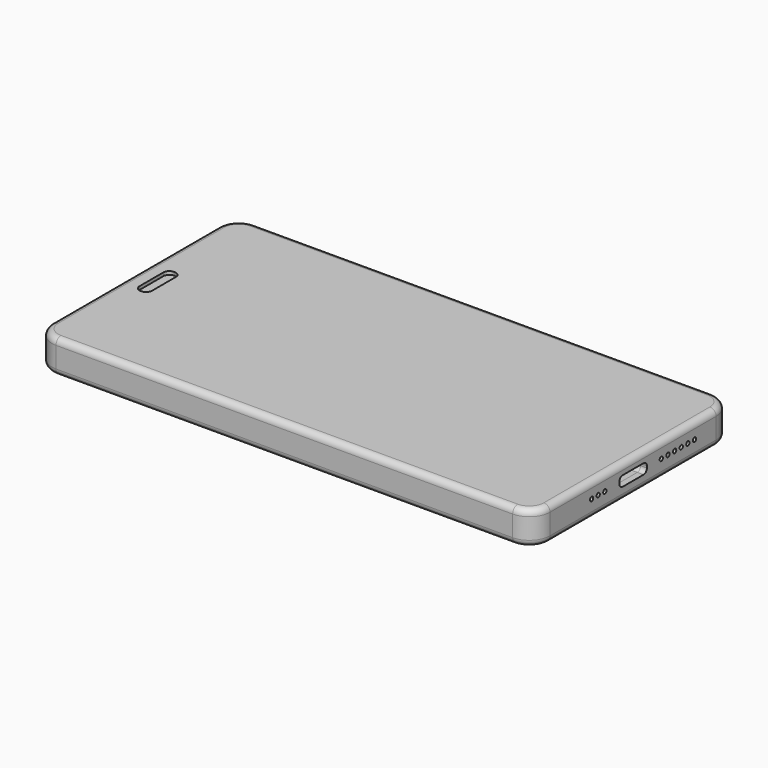
from build123d import *

# Parameters (mm, degrees)
BOX005_W          = 105
BOX005_H          = 57
BOX005_DEPTH      = 1
BOX007_W          = 3
BOX007_H          = 10
BOX007_DEPTH      = 10
FILLET006_R       = 1.4
BOX002_W          = 117
BOX002_H          = 57
BOX002_DEPTH      = 1
FILLET003_R       = 3.5
BOX010_W          = 3
BOX010_H          = 10
BOX010_DEPTH      = 0.2
FILLET008_R       = 1.4
BOX014_W          = 9
BOX014_H          = 9
BOX014_DEPTH      = 4.2
BOX013_W          = 35
BOX013_H          = 55.5
BOX013_DEPTH      = 3
FILLET009_R       = 3
BOX015_W          = 65
BOX015_H          = 53
BOX015_DEPTH      = 4
BOX011_W          = 2.5
BOX011_H          = 8
BOX011_DEPTH      = 10
CYLINDER004_R     = 1
CYLINDER004_DEPTH = 10
CYLINDER003_R     = 0.5
CYLINDER003_DEPTH = 10
CYLINDER_R        = 2
CYLINDER_DEPTH    = 10
BOX009_W          = 5
BOX009_H          = 2
BOX009_DEPTH      = 10
FILLET007_R       = 0.9
BOX003_W          = 8
BOX003_H          = 57
BOX003_DEPTH      = 1
BOX004_W          = 4
BOX004_H          = 57
BOX004_DEPTH      = 1
FILLET004_R       = 3.5
BOX006_W          = 117
BOX006_H          = 57
BOX006_DEPTH      = 0.5
FILLET005_R       = 3.5
CYLINDER009_R     = 2.5
CYLINDER009_DEPTH = 1
BOX012_W          = 8
BOX012_H          = 8
BOX012_DEPTH      = 4.2
CYLINDER010_R     = 2.3
CYLINDER010_DEPTH = 1
BOX036_W          = 10
BOX036_H          = 20
BOX036_DEPTH      = 3.7
BOX037_W          = 14
BOX037_H          = 20
BOX037_DEPTH      = 3.7
CYLINDER020_R     = 0.25
CYLINDER020_DEPTH = 10
BOX035_W          = 8.65
BOX035_H          = 8.3
BOX035_DEPTH      = 2.45
FILLET022_R       = 1
BOX016_W          = 14
BOX016_H          = 57
BOX016_DEPTH      = 4
FILLET010_R       = 3.5
BOX038_W          = 11.5
BOX038_H          = 20
BOX038_DEPTH      = 3.7
CYLINDER008_R     = 1
CYLINDER008_DEPTH = 1
CYLINDER007_R     = 2.5
CYLINDER007_DEPTH = 1
BOX043_W          = 10
BOX043_H          = 57
BOX043_DEPTH      = 0.8
FILLET026_R       = 3.5
BOX042_W          = 10
BOX042_H          = 57
BOX042_DEPTH      = 0.8
FILLET025_R       = 3.5
BOX047_W          = 20
BOX047_H          = 4
BOX047_DEPTH      = 2.5
FILLET028_R       = 1.2
BOX046_W          = 10
BOX046_H          = 4
BOX046_DEPTH      = 2.5
FILLET027_R       = 1.2
BOX044_W          = 8
BOX044_H          = 36
BOX044_DEPTH      = 10
BOX045_W          = 8
BOX045_H          = 41
BOX045_DEPTH      = 10
BOX041_W          = 10
BOX041_H          = 57
BOX041_DEPTH      = 0.8
FILLET024_R       = 3.5
BOX039_W          = 10
BOX039_H          = 57
BOX039_DEPTH      = 0.8
FILLET023_R       = 3.5
CYLINDER011_R     = 0.5
CYLINDER011_DEPTH = 10
CYLINDER015_R     = 0.5
CYLINDER015_DEPTH = 10
CYLINDER013_R     = 0.5
CYLINDER013_DEPTH = 10
CYLINDER017_R     = 0.5
CYLINDER017_DEPTH = 10
CYLINDER019_R     = 0.5
CYLINDER019_DEPTH = 10
CYLINDER018_R     = 0.5
CYLINDER018_DEPTH = 10
CYLINDER014_R     = 0.5
CYLINDER014_DEPTH = 10
CYLINDER016_R     = 0.5
CYLINDER016_DEPTH = 10
CYLINDER012_R     = 0.5
CYLINDER012_DEPTH = 10
CYLINDER006_R     = 1
CYLINDER006_DEPTH = 10
CYLINDER005_R     = 2.5
CYLINDER005_DEPTH = 10
BOX001_W          = 117
BOX001_H          = 57
BOX001_DEPTH      = 8
FILLET002_R       = 3.5
BOX_W             = 120
BOX_H             = 60
BOX_DEPTH         = 8
FILLET_R          = 5
FILLET001_R       = 1.5
BOX049_W          = 20
BOX049_H          = 4
BOX049_DEPTH      = 2.5
FILLET030_R       = 1.2
BOX048_W          = 10
BOX048_H          = 4
BOX048_DEPTH      = 2.5
FILLET029_R       = 1.2


with BuildPart() as screen:
    # Box005 → Box005 (new body)
    with BuildSketch(Plane(origin=(9.5, 1.5, 6), x_dir=(1, 0, 0), z_dir=(0, 0, 1))):
        with Locations((52.5, 28.5)):
            Rectangle(BOX005_W, BOX005_H)
    extrude(amount=BOX005_DEPTH)


with BuildPart() as fillet006:
    # Box007 → Box007 (new body)
    with BuildSketch(Plane(origin=(4, 25, 0), x_dir=(1, 0, 0), z_dir=(0, 0, 1))):
        with Locations((1.5, 5)):
            Rectangle(BOX007_W, BOX007_H)
    extrude(amount=BOX007_DEPTH)

    # Fillet006
    fillet006_edges = [fillet006.edges().sort_by_distance(p)[0] for p in [
        (4, 25, 5),
        (4, 35, 5),
        (7, 25, 5),
        (7, 35, 5),
    ]]
    fillet(fillet006_edges, radius=FILLET006_R)


with BuildPart() as touchscreen:
    # Box002 → Box002 (new body)
    with BuildSketch(Plane(origin=(1.5, 1.5, 0), x_dir=(1, 0, 0), z_dir=(0, 0, 1))):
        with Locations((58.5, 28.5)):
            Rectangle(BOX002_W, BOX002_H)
    extrude(amount=BOX002_DEPTH)

    # Fillet003
    fillet003_edges = [touchscreen.edges().sort_by_distance(p)[0] for p in [
        (1.5, 1.5, 0.5),
        (1.5, 58.5, 0.5),
        (118.5, 1.5, 0.5),
        (118.5, 58.5, 0.5),
    ]]
    fillet(fillet003_edges, radius=FILLET003_R)


with BuildPart() as touchscreen_1:
    # Fillet003 placement: moved
    add(touchscreen.part.moved(Location((0, 0, 7))))

    # Cut001: cut Fillet006
    add(fillet006.part, mode=Mode.SUBTRACT)


with BuildPart() as speaker_bezel:
    # Box010 → Box010 (new body)
    with BuildSketch(Plane(origin=(4, 25, 0), x_dir=(1, 0, 0), z_dir=(0, 0, 1))):
        with Locations((1.5, 5)):
            Rectangle(BOX010_W, BOX010_H)
    extrude(amount=BOX010_DEPTH)

    # Fillet008
    fillet008_edges = [speaker_bezel.edges().sort_by_distance(p)[0] for p in [
        (4, 25, 0.1),
        (4, 35, 0.1),
        (7, 25, 0.1),
        (7, 35, 0.1),
    ]]
    fillet(fillet008_edges, radius=FILLET008_R)


with BuildPart() as speaker_bezel_1:
    # Fillet008 placement: moved
    add(speaker_bezel.part.moved(Location((0, 0, 7))))


with BuildPart() as back_camera001:
    # Box014 → Box014 (new body)
    with BuildSketch(Plane(origin=(2.1, 48.5, 1.6), x_dir=(1, 0, 0), z_dir=(0, 0, 1))):
        with Locations((4.5, 4.5)):
            Rectangle(BOX014_W, BOX014_H)
    extrude(amount=BOX014_DEPTH)


with BuildPart() as pcb:
    # Box013 → Box013 (new body)
    with BuildSketch(Plane(origin=(2.1, 2, 2.5), x_dir=(1, 0, 0), z_dir=(0, 0, 1))):
        with Locations((17.5, 27.75)):
            Rectangle(BOX013_W, BOX013_H)
    extrude(amount=BOX013_DEPTH)

    # Fillet009
    fillet009_edges = [pcb.edges().sort_by_distance(p)[0] for p in [
        (2.1, 2, 4),
    ]]
    fillet(fillet009_edges, radius=FILLET009_R)

    # Cut009: cut Back Camera001
    add(back_camera001.part, mode=Mode.SUBTRACT)


with BuildPart() as pcb_1:
    # Cut009 placement: moved
    add(pcb.part.moved(Location((0, 0, -0.5))))


with BuildPart() as battery:
    # Box015 → Box015 (new body)
    with BuildSketch(Plane(origin=(39, 2, 1.2), x_dir=(1, 0, 0), z_dir=(0, 0, 1))):
        with Locations((32.5, 26.5)):
            Rectangle(BOX015_W, BOX015_H)
    extrude(amount=BOX015_DEPTH)


with BuildPart() as cubo011:
    # Box011 → Box011 (new body)
    with BuildSketch(Plane(origin=(4.2, 26, 0), x_dir=(1, 0, 0), z_dir=(0, 0, 1))):
        with Locations((1.25, 4)):
            Rectangle(BOX011_W, BOX011_H)
    extrude(amount=BOX011_DEPTH)


with BuildPart() as cilindro003:
    # Cylinder004 → Cylinder004 (new body)
    with BuildSketch(Plane(origin=(5.5, 15.5, 0), x_dir=(1, 0, 0), z_dir=(0, 0, 1))):
        Circle(CYLINDER004_R)
    extrude(amount=CYLINDER004_DEPTH)


with BuildPart() as cilindro002:
    # Cylinder003 → Cylinder003 (new body)
    with BuildSketch(Plane(origin=(5.5, 23.5, 0), x_dir=(1, 0, 0), z_dir=(0, 0, 1))):
        Circle(CYLINDER003_R)
    extrude(amount=CYLINDER003_DEPTH)


with BuildPart() as cilindro:
    # Cylinder → Cylinder (new body)
    with BuildSketch(Plane(origin=(5.5, 20, 0), x_dir=(1, 0, 0), z_dir=(0, 0, 1))):
        Circle(CYLINDER_R)
    extrude(amount=CYLINDER_DEPTH)


with BuildPart() as fillet007:
    # Box009 → Box009 (new body)
    with BuildSketch(Plane(origin=(3, 37, 0), x_dir=(1, 0, 0), z_dir=(0, 0, 1))):
        with Locations((2.5, 1)):
            Rectangle(BOX009_W, BOX009_H)
    extrude(amount=BOX009_DEPTH)

    # Fillet007
    fillet007_edges = [fillet007.edges().sort_by_distance(p)[0] for p in [
        (3, 37, 5),
        (3, 39, 5),
        (8, 37, 5),
        (8, 39, 5),
    ]]
    fillet(fillet007_edges, radius=FILLET007_R)


with BuildPart() as cubo003:
    # Box003 → Box003 (new body)
    with BuildSketch(Plane(origin=(1.5, 1.5, 0), x_dir=(1, 0, 0), z_dir=(0, 0, 1))):
        with Locations((4, 28.5)):
            Rectangle(BOX003_W, BOX003_H)
    extrude(amount=BOX003_DEPTH)


with BuildPart() as cut008:
    # Box004 → Box004 (new body)
    with BuildSketch(Plane(origin=(114.5, 1.5, 0), x_dir=(1, 0, 0), z_dir=(0, 0, 1))):
        with Locations((2, 28.5)):
            Rectangle(BOX004_W, BOX004_H)
    extrude(amount=BOX004_DEPTH)

    # Fusion: union Cubo003
    add(cubo003.part)


with BuildPart() as cut008_1:
    # Fusion placement: moved
    add(cut008.part.moved(Location((0, 0, 6))))

    # Fillet004
    fillet004_edges = [cut008_1.edges().sort_by_distance(p)[0] for p in [
        (118.5, 1.5, 6.5),
        (118.5, 58.5, 6.5),
        (1.5, 1.5, 6.5),
        (1.5, 58.5, 6.5),
    ]]
    fillet(fillet004_edges, radius=FILLET004_R)

    # Cut002: cut Fillet007
    add(fillet007.part, mode=Mode.SUBTRACT)

    # Cut003: cut Cilindro
    add(cilindro.part, mode=Mode.SUBTRACT)

    # Cut004: cut Cilindro002
    add(cilindro002.part, mode=Mode.SUBTRACT)

    # Cut006: cut Cilindro003
    add(cilindro003.part, mode=Mode.SUBTRACT)

    # Cut008: cut Cubo011
    add(cubo011.part, mode=Mode.SUBTRACT)


with BuildPart() as frame:
    # Box006 → Box006 (new body)
    with BuildSketch(Plane(origin=(1.5, 1.5, 0), x_dir=(1, 0, 0), z_dir=(0, 0, 1))):
        with Locations((58.5, 28.5)):
            Rectangle(BOX006_W, BOX006_H)
    extrude(amount=BOX006_DEPTH)

    # Fillet005
    fillet005_edges = [frame.edges().sort_by_distance(p)[0] for p in [
        (1.5, 1.5, 0.25),
        (1.5, 58.5, 0.25),
        (118.5, 1.5, 0.25),
        (118.5, 58.5, 0.25),
    ]]
    fillet(fillet005_edges, radius=FILLET005_R)


with BuildPart() as frame_1:
    # Fillet005 placement: moved
    add(frame.part.moved(Location((0, 0, 5.5))))

    # Fusion002: union Cut008
    add(cut008_1.part)


with BuildPart() as camera_lent001:
    # Cylinder009 → Cylinder009 (new body)
    with BuildSketch(Plane(origin=(6.5, 53, 1), x_dir=(1, 0, 0), z_dir=(0, 0, 1))):
        Circle(CYLINDER009_R)
    extrude(amount=CYLINDER009_DEPTH)


with BuildPart() as camera002:
    # Box012 → Box012 (new body)
    with BuildSketch(Plane(origin=(2.6, 49, 1.2), x_dir=(1, 0, 0), z_dir=(0, 0, 1))):
        with Locations((4, 4)):
            Rectangle(BOX012_W, BOX012_H)
    extrude(amount=BOX012_DEPTH)

    # Cut010: cut Camera lent001
    add(camera_lent001.part, mode=Mode.SUBTRACT)


with BuildPart() as camera_lent002:
    # Cylinder010 → Cylinder010 (new body)
    with BuildSketch(Plane(origin=(6.5, 53, 1), x_dir=(1, 0, 0), z_dir=(0, 0, 1))):
        Circle(CYLINDER010_R)
    extrude(amount=CYLINDER010_DEPTH)


with BuildPart() as esfera001:
    # Sphere002 → Sphere002 (revolve)
    with BuildSketch(Plane(origin=(6.5, 53, 1), x_dir=(1, 0, 0), z_dir=(0, -1, 0))):
        with BuildLine():
            ThreePointArc((0, -0.5), (0.5, 0), (0, 0.5))
            Line((0, 0.5), (0, -0.5))
        make_face()
    revolve(axis=Axis((6.5, 53, 1), (0, 0, 1)))


with BuildPart() as obj1:
    # Box036 → Box036 (new body)
    with BuildSketch(Plane(origin=(106, 3, 1.5), x_dir=(1, 0, 0), z_dir=(0, 0, 1))):
        with Locations((5, 10)):
            Rectangle(BOX036_W, BOX036_H)
    extrude(amount=BOX036_DEPTH)


with BuildPart() as speaker_hole:
    # Box037 → Box037 (new body)
    with BuildSketch(Plane(origin=(107, 35, 1.5), x_dir=(1, 0, 0), z_dir=(0, 0, 1))):
        with Locations((7, 10)):
            Rectangle(BOX037_W, BOX037_H)
    extrude(amount=BOX037_DEPTH)


with BuildPart() as cilindro013:
    # Cylinder020 → Cylinder020 (new body)
    with BuildSketch(Plane(origin=(113, 19.5, 4.2), x_dir=(0, 1, 0), z_dir=(1, 0, 0))):
        Circle(CYLINDER020_R)
    extrude(amount=CYLINDER020_DEPTH)


with BuildPart() as usb_c:
    # Box035 → Box035 (new body)
    with BuildSketch(Plane.XY):
        with Locations((4.325, 4.15)):
            Rectangle(BOX035_W, BOX035_H)
    extrude(amount=BOX035_DEPTH)

    # Fillet022
    fillet022_edges = [usb_c.edges().sort_by_distance(p)[0] for p in [
        (4.325, 0, 0),
        (4.325, 0, 2.45),
        (4.325, 8.3, 0),
        (4.325, 8.3, 2.45),
    ]]
    fillet(fillet022_edges, radius=FILLET022_R)


with BuildPart() as usb_c_1:
    # Fillet022 placement: moved
    add(usb_c.part.moved(Location((113, 25.85, 3))))


with BuildPart() as buzzer:
    # Box016 → Box016 (new body)
    with BuildSketch(Plane(origin=(104.5, 1.5, 1.2), x_dir=(1, 0, 0), z_dir=(0, 0, 1))):
        with Locations((7, 28.5)):
            Rectangle(BOX016_W, BOX016_H)
    extrude(amount=BOX016_DEPTH)

    # Fillet010
    fillet010_edges = [buzzer.edges().sort_by_distance(p)[0] for p in [
        (118.5, 1.5, 3.2),
        (118.5, 58.5, 3.2),
    ]]
    fillet(fillet010_edges, radius=FILLET010_R)

    # Cut013: cut USB-C
    add(usb_c_1.part, mode=Mode.SUBTRACT)

    # Cut014: cut Cilindro013
    add(cilindro013.part, mode=Mode.SUBTRACT)

    # Cut015: cut Speaker hole
    add(speaker_hole.part, mode=Mode.SUBTRACT)


with BuildPart() as speaker:
    # Box038 → Box038 (new body)
    with BuildSketch(Plane(origin=(107, 35, 1.5), x_dir=(1, 0, 0), z_dir=(0, 0, 1))):
        with Locations((5.75, 10)):
            Rectangle(BOX038_W, BOX038_H)
    extrude(amount=BOX038_DEPTH)


with BuildPart() as flash_lens:
    # Cylinder008 → Cylinder008 (new body)
    with BuildSketch(Plane(origin=(6.5, 45.5, 0), x_dir=(1, 0, 0), z_dir=(0, 0, 1))):
        Circle(CYLINDER008_R)
    extrude(amount=CYLINDER008_DEPTH)


with BuildPart() as esfera:
    # Sphere001 → Sphere001 (revolve)
    with BuildSketch(Plane(origin=(6.5, 53, 1), x_dir=(1, 0, 0), z_dir=(0, -1, 0))):
        with BuildLine():
            ThreePointArc((0, -0.5), (0.5, 0), (0, 0.5))
            Line((0, 0.5), (0, -0.5))
        make_face()
    revolve(axis=Axis((6.5, 53, 1), (0, 0, 1)))


with BuildPart() as cut011:
    # Cylinder007 → Cylinder007 (new body)
    with BuildSketch(Plane(origin=(6.5, 53, 0), x_dir=(1, 0, 0), z_dir=(0, 0, 1))):
        Circle(CYLINDER007_R)
    extrude(amount=CYLINDER007_DEPTH)

    # Cut011: cut Esfera
    add(esfera.part, mode=Mode.SUBTRACT)


with BuildPart() as fillet026:
    # Box043 → Box043 (new body)
    with BuildSketch(Plane(origin=(108.5, 1.5, 0), x_dir=(1, 0, 0), z_dir=(0, 0, 1))):
        with Locations((5, 28.5)):
            Rectangle(BOX043_W, BOX043_H)
    extrude(amount=BOX043_DEPTH)

    # Fillet026
    fillet026_edges = [fillet026.edges().sort_by_distance(p)[0] for p in [
        (118.5, 1.5, 0.4),
        (118.5, 58.5, 0.4),
    ]]
    fillet(fillet026_edges, radius=FILLET026_R)


with BuildPart() as antenna:
    # Box042 → Box042 (new body)
    with BuildSketch(Plane(origin=(1.5, 1.5, 0), x_dir=(1, 0, 0), z_dir=(0, 0, 1))):
        with Locations((5, 28.5)):
            Rectangle(BOX042_W, BOX042_H)
    extrude(amount=BOX042_DEPTH)

    # Fillet025
    fillet025_edges = [antenna.edges().sort_by_distance(p)[0] for p in [
        (1.5, 1.5, 0.4),
        (1.5, 58.5, 0.4),
    ]]
    fillet(fillet025_edges, radius=FILLET025_R)

    # Fusion009: union Fillet026
    add(fillet026.part)

    # Cut017: cut Cut011
    add(cut011.part, mode=Mode.SUBTRACT)

    # Cut018: cut Flash lens
    add(flash_lens.part, mode=Mode.SUBTRACT)


with BuildPart() as obj2:
    # Box047 → Box047 (new body)
    with BuildSketch(Plane(origin=(68, 57, 2.75), x_dir=(1, 0, 0), z_dir=(0, 0, 1))):
        with Locations((10, 2)):
            Rectangle(BOX047_W, BOX047_H)
    extrude(amount=BOX047_DEPTH)

    # Fillet028
    fillet028_edges = [obj2.edges().sort_by_distance(p)[0] for p in [
        (68, 59, 5.25),
        (68, 59, 2.75),
        (88, 59, 5.25),
        (88, 59, 2.75),
    ]]
    fillet(fillet028_edges, radius=FILLET028_R)


with BuildPart() as obj3:
    # Box046 → Box046 (new body)
    with BuildSketch(Plane(origin=(55, 57, 2.75), x_dir=(1, 0, 0), z_dir=(0, 0, 1))):
        with Locations((5, 2)):
            Rectangle(BOX046_W, BOX046_H)
    extrude(amount=BOX046_DEPTH)

    # Fillet027
    fillet027_edges = [obj3.edges().sort_by_distance(p)[0] for p in [
        (55, 59, 5.25),
        (55, 59, 2.75),
        (65, 59, 5.25),
        (65, 59, 2.75),
    ]]
    fillet(fillet027_edges, radius=FILLET027_R)

    # Fusion011: union obj2
    add(obj2.part)


with BuildPart() as cubo034:
    # Box044 → Box044 (new body)
    with BuildSketch(Plane(origin=(2.5, 5, 0), x_dir=(1, 0, 0), z_dir=(0, 0, 1))):
        with Locations((4, 18)):
            Rectangle(BOX044_W, BOX044_H)
    extrude(amount=BOX044_DEPTH)


with BuildPart() as fusion010:
    # Box045 → Box045 (new body)
    with BuildSketch(Plane(origin=(109.5, 9, 0), x_dir=(1, 0, 0), z_dir=(0, 0, 1))):
        with Locations((4, 20.5)):
            Rectangle(BOX045_W, BOX045_H)
    extrude(amount=BOX045_DEPTH)

    # Fusion010: union Cubo034
    add(cubo034.part)


with BuildPart() as fillet024:
    # Box041 → Box041 (new body)
    with BuildSketch(Plane(origin=(108.5, 1.5, 0), x_dir=(1, 0, 0), z_dir=(0, 0, 1))):
        with Locations((5, 28.5)):
            Rectangle(BOX041_W, BOX041_H)
    extrude(amount=BOX041_DEPTH)

    # Fillet024
    fillet024_edges = [fillet024.edges().sort_by_distance(p)[0] for p in [
        (118.5, 1.5, 0.4),
        (118.5, 58.5, 0.4),
    ]]
    fillet(fillet024_edges, radius=FILLET024_R)


with BuildPart() as fusion008:
    # Box039 → Box039 (new body)
    with BuildSketch(Plane(origin=(1.5, 1.5, 0), x_dir=(1, 0, 0), z_dir=(0, 0, 1))):
        with Locations((5, 28.5)):
            Rectangle(BOX039_W, BOX039_H)
    extrude(amount=BOX039_DEPTH)

    # Fillet023
    fillet023_edges = [fusion008.edges().sort_by_distance(p)[0] for p in [
        (1.5, 1.5, 0.4),
        (1.5, 58.5, 0.4),
    ]]
    fillet(fillet023_edges, radius=FILLET023_R)

    # Fusion008: union Fillet024
    add(fillet024.part)


with BuildPart() as cilindro004:
    # Cylinder011 → Cylinder011 (new body)
    with BuildSketch(Plane(origin=(113, 48.5, 4.2), x_dir=(0, 1, 0), z_dir=(1, 0, 0))):
        Circle(CYLINDER011_R)
    extrude(amount=CYLINDER011_DEPTH)


with BuildPart() as cilindro008:
    # Cylinder015 → Cylinder015 (new body)
    with BuildSketch(Plane(origin=(113, 44.5, 4.2), x_dir=(0, 1, 0), z_dir=(1, 0, 0))):
        Circle(CYLINDER015_R)
    extrude(amount=CYLINDER015_DEPTH)


with BuildPart() as fusion004:
    # Cylinder013 → Cylinder013 (new body)
    with BuildSketch(Plane(origin=(113, 46.5, 4.2), x_dir=(0, 1, 0), z_dir=(1, 0, 0))):
        Circle(CYLINDER013_R)
    extrude(amount=CYLINDER013_DEPTH)

    # Fusion004: union Cilindro004, Cilindro008
    add(cilindro004.part)
    add(cilindro008.part)


with BuildPart() as fusion004_1:
    # Fusion004 placement: moved
    add(fusion004.part.moved(Location((0, -6, 0))))


with BuildPart() as cilindro010:
    # Cylinder017 → Cylinder017 (new body)
    with BuildSketch(Plane(origin=(113, 48.5, 4.2), x_dir=(0, 1, 0), z_dir=(1, 0, 0))):
        Circle(CYLINDER017_R)
    extrude(amount=CYLINDER017_DEPTH)


with BuildPart() as cilindro012:
    # Cylinder019 → Cylinder019 (new body)
    with BuildSketch(Plane(origin=(113, 44.5, 4.2), x_dir=(0, 1, 0), z_dir=(1, 0, 0))):
        Circle(CYLINDER019_R)
    extrude(amount=CYLINDER019_DEPTH)


with BuildPart() as speaker_holes:
    # Cylinder018 → Cylinder018 (new body)
    with BuildSketch(Plane(origin=(113, 46.5, 4.2), x_dir=(0, 1, 0), z_dir=(1, 0, 0))):
        Circle(CYLINDER018_R)
    extrude(amount=CYLINDER018_DEPTH)

    # Fusion005: union Cilindro010, Cilindro012
    add(cilindro010.part)
    add(cilindro012.part)

    # Fusion006: union Fusion004
    add(fusion004_1.part)


with BuildPart() as cilindro007:
    # Cylinder014 → Cylinder014 (new body)
    with BuildSketch(Plane(origin=(113, 13.5, 4.2), x_dir=(0, 1, 0), z_dir=(1, 0, 0))):
        Circle(CYLINDER014_R)
    extrude(amount=CYLINDER014_DEPTH)


with BuildPart() as cilindro009:
    # Cylinder016 → Cylinder016 (new body)
    with BuildSketch(Plane(origin=(113, 15.5, 4.2), x_dir=(0, 1, 0), z_dir=(1, 0, 0))):
        Circle(CYLINDER016_R)
    extrude(amount=CYLINDER016_DEPTH)


with BuildPart() as bot_holes:
    # Cylinder012 → Cylinder012 (new body)
    with BuildSketch(Plane(origin=(113, 11.5, 4.2), x_dir=(0, 1, 0), z_dir=(1, 0, 0))):
        Circle(CYLINDER012_R)
    extrude(amount=CYLINDER012_DEPTH)

    # Fusion003: union Cilindro007, Cilindro009
    add(cilindro007.part)
    add(cilindro009.part)


with BuildPart() as bot_holes_1:
    # Fusion003 placement: moved
    add(bot_holes.part.moved(Location((0, 6, 0))))

    # Fusion007: union USB-C, speaker holes
    add(usb_c_1.part)
    add(speaker_holes.part)


with BuildPart() as flash:
    # Cylinder006 → Cylinder006 (new body)
    with BuildSketch(Plane(origin=(6.5, 45.5, -3), x_dir=(1, 0, 0), z_dir=(0, 0, 1))):
        Circle(CYLINDER006_R)
    extrude(amount=CYLINDER006_DEPTH)


with BuildPart() as camera:
    # Cylinder005 → Cylinder005 (new body)
    with BuildSketch(Plane(origin=(6.5, 53, -3), x_dir=(1, 0, 0), z_dir=(0, 0, 1))):
        Circle(CYLINDER005_R)
    extrude(amount=CYLINDER005_DEPTH)

    # Fusion001: union Flash
    add(flash.part)


with BuildPart() as fillet002:
    # Box001 → Box001 (new body)
    with BuildSketch(Plane(origin=(1.5, 1.5, 0), x_dir=(1, 0, 0), z_dir=(0, 0, 1))):
        with Locations((58.5, 28.5)):
            Rectangle(BOX001_W, BOX001_H)
    extrude(amount=BOX001_DEPTH)

    # Fillet002
    fillet002_edges = [fillet002.edges().sort_by_distance(p)[0] for p in [
        (1.5, 1.5, 4),
        (1.5, 58.5, 4),
        (118.5, 1.5, 4),
        (118.5, 58.5, 4),
    ]]
    fillet(fillet002_edges, radius=FILLET002_R)


with BuildPart() as fillet002_1:
    # Fillet002 placement: moved
    add(fillet002.part.moved(Location((0, 0, 1))))


with BuildPart() as chassis:
    # Box → Box (new body)
    with BuildSketch(Plane.XY):
        with Locations((60, 30)):
            Rectangle(BOX_W, BOX_H)
    extrude(amount=BOX_DEPTH)

    # Fillet
    fillet_edges = [chassis.edges().sort_by_distance(p)[0] for p in [
        (0, 0, 4),
        (0, 60, 4),
        (120, 0, 4),
        (120, 60, 4),
    ]]
    fillet(fillet_edges, radius=FILLET_R)

    # Fillet001
    fillet001_edges = [chassis.edges().sort_by_distance(p)[0] for p in [
        (0, 30, 8),
        (0, 30, 0),
        (1.464466, 1.464466, 8),
        (1.464466, 58.535534, 8),
        (60, 0, 8),
        (60, 60, 8),
        (118.535534, 1.464466, 8),
        (118.535534, 58.535534, 8),
        (120, 30, 8),
        (1.464466, 1.464466, 0),
        (1.464466, 58.535534, 0),
        (60, 0, 0),
        (60, 60, 0),
        (118.535534, 1.464466, 0),
        (118.535534, 58.535534, 0),
        (120, 30, 0),
    ]]
    fillet(fillet001_edges, radius=FILLET001_R)

    # Cut: cut Fillet002
    add(fillet002_1.part, mode=Mode.SUBTRACT)

    # Cut007: cut Camera
    add(camera.part, mode=Mode.SUBTRACT)

    # Cut012: cut Bot holes
    add(bot_holes_1.part, mode=Mode.SUBTRACT)

    # Cut016: cut Fusion008
    add(fusion008.part, mode=Mode.SUBTRACT)

    # Cut019: cut Fusion010
    add(fusion010.part, mode=Mode.SUBTRACT)

    # Cut020: cut obj3
    add(obj3.part, mode=Mode.SUBTRACT)


with BuildPart() as volumebutton:
    # Box049 → Box049 (new body)
    with BuildSketch(Plane(origin=(68, 57, 2.75), x_dir=(1, 0, 0), z_dir=(0, 0, 1))):
        with Locations((10, 2)):
            Rectangle(BOX049_W, BOX049_H)
    extrude(amount=BOX049_DEPTH)

    # Fillet030
    fillet030_edges = [volumebutton.edges().sort_by_distance(p)[0] for p in [
        (68, 59, 5.25),
        (68, 59, 2.75),
        (88, 59, 5.25),
        (88, 59, 2.75),
    ]]
    fillet(fillet030_edges, radius=FILLET030_R)


with BuildPart() as buttons:
    # Box048 → Box048 (new body)
    with BuildSketch(Plane(origin=(55, 57, 2.75), x_dir=(1, 0, 0), z_dir=(0, 0, 1))):
        with Locations((5, 2)):
            Rectangle(BOX048_W, BOX048_H)
    extrude(amount=BOX048_DEPTH)

    # Fillet029
    fillet029_edges = [buttons.edges().sort_by_distance(p)[0] for p in [
        (55, 59, 5.25),
        (55, 59, 2.75),
        (65, 59, 5.25),
        (65, 59, 2.75),
    ]]
    fillet(fillet029_edges, radius=FILLET029_R)

    # Fusion012: union VolumeButton
    add(volumebutton.part)


solid = Compound([screen.part, touchscreen_1.part, speaker_bezel_1.part, pcb_1.part, battery.part, frame_1.part, camera002.part, camera_lent002.part, esfera001.part, obj1.part, buzzer.part, speaker.part, antenna.part, chassis.part, buttons.part])
